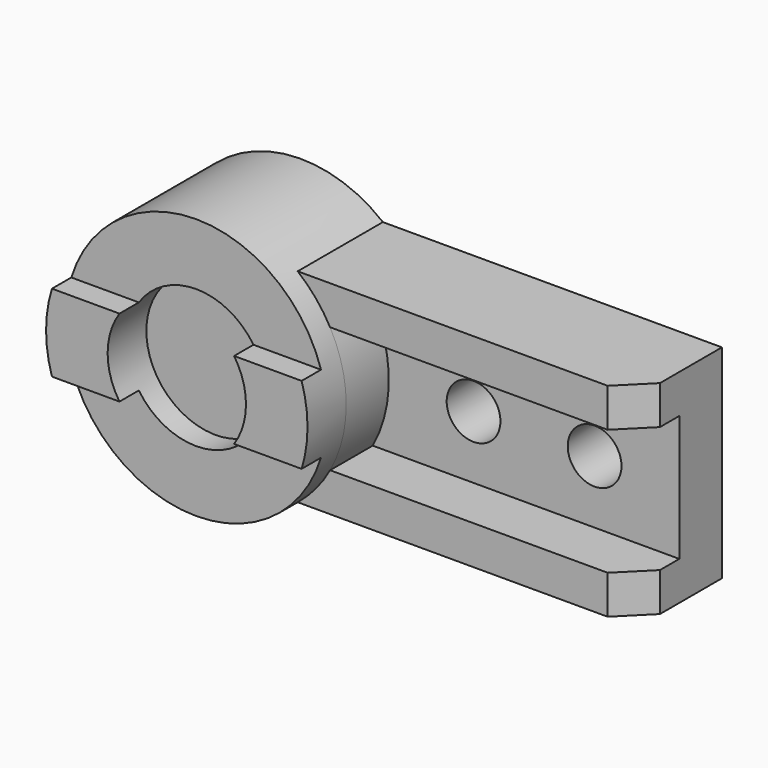
from build123d import *

# Parameters (mm, degrees)
F0_R      = 54
F0_R_2    = 28.575
F1_DEPTH  = 64
F2_R      = 11.1
F3_DEPTH  = 44
F6_DEPTH  = 22
F8_DEPTH  = 114.55193
F10_DEPTH = 10


with BuildPart() as f1:
    # F0 (on Front) → F1 (new body)
    with BuildSketch(Plane.XZ):
        Circle(F0_R)
        Circle(F0_R_2, mode=Mode.SUBTRACT)
    extrude(amount=F1_DEPTH)

    # F2 (on Front) → F3 (join)
    with BuildSketch(Plane.XZ):
        with BuildLine():
            ThreePointArc((33.941125, -42), (48.727922, -23.272078), (54, 0))
            ThreePointArc((54, 0), (48.727922, 23.272078), (33.941125, 42))
            ThreePointArc((33.941125, 42), (-54, 0), (33.941125, -42))
        make_face()
        with BuildLine():
            ThreePointArc((33.941125, 42), (48.727922, 23.272078), (54, 0))
            ThreePointArc((54, 0), (48.727922, -23.272078), (33.941125, -42))
            Line((33.941125, -42), (174, -42))
            Line((174, -42), (174, 42))
            Line((174, 42), (33.941125, 42))
        make_face()
        with Locations((89, 0)):
            Circle(F2_R, mode=Mode.SUBTRACT)
        with Locations((139, 0)):
            Circle(F2_R, mode=Mode.SUBTRACT)
    extrude(amount=F3_DEPTH)

    # F5 (on face) → F6 (cut)
    with BuildSketch(Plane.XZ.offset(44)):
        with BuildLine():
            Line((174, -26), (174, 26))
            Line((174, 26), (47.328638, 26))
            ThreePointArc((47.328638, 26), (54, 0), (47.328638, -26))
            Line((47.328638, -26), (174, -26))
        make_face()
    extrude(amount=-F6_DEPTH, mode=Mode.SUBTRACT)

    # F7 (on face) → F8 (cut)
    with BuildSketch(Plane.XY.offset(42)):
        Polygon((174, -32), (162, -44), (174, -44), align=None)
    extrude(amount=-F8_DEPTH, mode=Mode.SUBTRACT)

    # F9 (on face) → F10 (cut)
    with BuildSketch(Plane.XZ.offset(64)):
        with BuildLine():
            ThreePointArc((51.575188, 16), (0, 54), (-51.575188, 16))
            Line((-51.575188, 16), (-23.675528, 16))
            ThreePointArc((-23.675528, 16), (0, 28.575), (23.675528, 16))
            Line((23.675528, 16), (51.575188, 16))
        make_face()
        with BuildLine():
            Line((-23.675528, -16), (-51.575188, -16))
            ThreePointArc((-51.575188, -16), (0, -54), (51.575188, -16))
            Line((51.575188, -16), (23.675528, -16))
            ThreePointArc((23.675528, -16), (0, -28.575), (-23.675528, -16))
        make_face()
    extrude(amount=-F10_DEPTH, mode=Mode.SUBTRACT)


solid = f1.part
